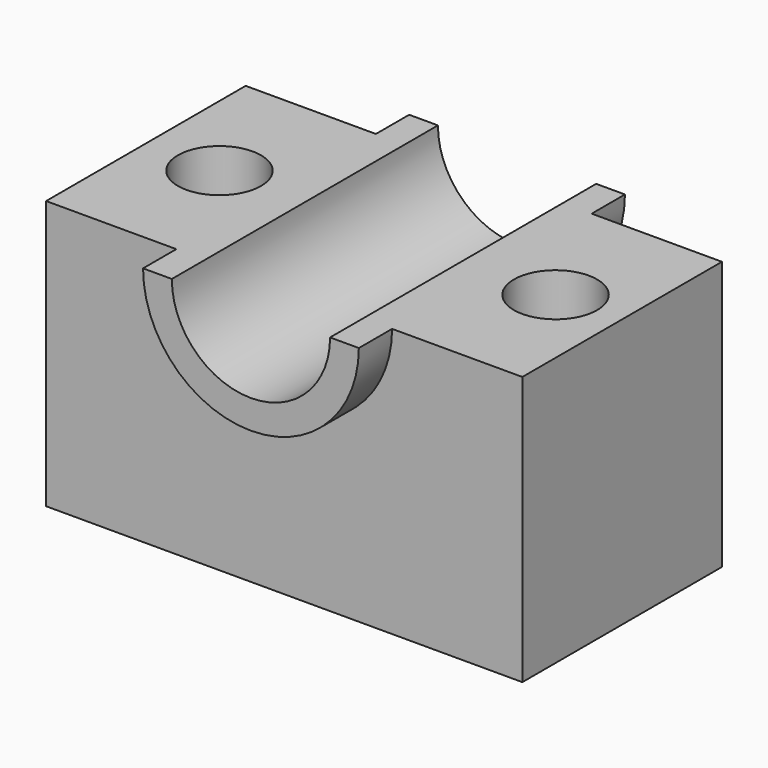
from build123d import *

# Parameters (mm, degrees)
F0_W          = 145.4727351665
F0_H          = 82.0685699582
F1_DEPTH      = 38.1
F3_DEPTH      = 12.7
F3_DEPTH_BACK = 88.9
F4_DEPTH      = 88.901
F6_D          = 25.4


with BuildPart() as f1:
    # F0 (on Front) → F1 (new body, symmetric)
    with BuildSketch(Plane.XZ):
        Rectangle(F0_W, F0_H)
    extrude(amount=F1_DEPTH, both=True)

    # F2 (on face) → F3 (join, two sides)
    with BuildSketch(Plane.XZ.offset(38.1)) as f3_sk:
        with BuildLine():
            Line((-24.1679944094, 41.0342849791), (-32.9555145721, 41.0342849791))
            ThreePointArc((-32.9555145721, 41.0342849791), (0, 8.078770407), (32.9555145721, 41.0342849791))
            Line((32.9555145721, 41.0342849791), (24.1679944094, 41.0342849791))
            ThreePointArc((24.1679944094, 41.0342849791), (0, 16.8662905697), (-24.1679944094, 41.0342849791))
        make_face()
    extrude(amount=F3_DEPTH)
    extrude(f3_sk.sketch, amount=-F3_DEPTH_BACK)

    # F4 (cut, through all): a face of the model
    f4_faces = [f1.faces().sort_by_distance(p)[0] for p in [
        (0, -38.1, 30.7770695794),
    ]]
    extrude(f4_faces, amount=-F4_DEPTH, mode=Mode.SUBTRACT)

    # F6 (through all)
    with Locations(Plane.XY.offset(41.0342849791)):
        with Locations((-50.2582862973, 0), (52.3969344795, 0)):
            Hole(F6_D / 2)


solid = f1.part
